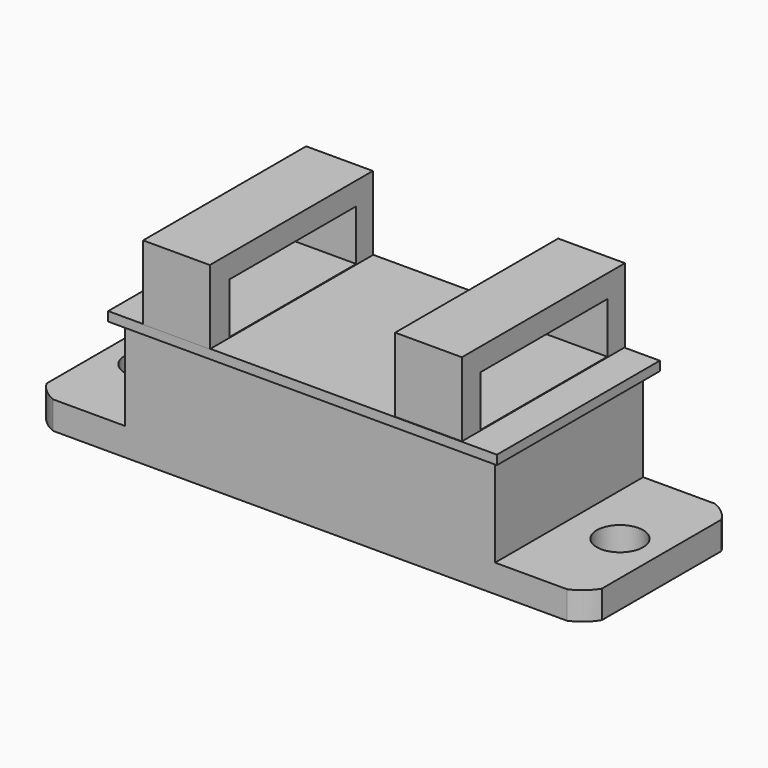
from build123d import *

# Parameters (mm, degrees)
SKETCH_W        = 60
SKETCH_H        = 20
PAD_DEPTH       = 3
SKETCH001_W     = 40
SKETCH001_H     = 20
PAD001_DEPTH    = 10
SKETCH002_W     = 42
SKETCH002_H     = 22
PAD002_DEPTH    = 1
SKETCH003_W     = 7.210509
SKETCH003_H     = 22.018964
PAD003_DEPTH    = 8
SKETCH010_W     = 17.104093
SKETCH010_H     = 5.482681
POCKET_DEPTH    = 40
POCKET001_DEPTH = 5
SKETCH012_R     = 2.5
POCKET002_DEPTH = 5


with BuildPart() as part:
    # Sketch → Pad (new body)
    with BuildSketch(Plane.XY):
        Rectangle(SKETCH_W, SKETCH_H)
    extrude(amount=PAD_DEPTH)

    # Sketch001 (on Face6 of Pad) → Pad001 (join)
    with BuildSketch(Plane.XY.offset(3)):
        Rectangle(SKETCH001_W, SKETCH001_H)
    extrude(amount=PAD001_DEPTH)

    # Sketch002 → Pad002 (join)
    with BuildSketch(Plane.XY.offset(13)):
        Rectangle(SKETCH002_W, SKETCH002_H)
    extrude(amount=PAD002_DEPTH)

    # Sketch003 (on Face15 of Pad002) → Pad003 (join)
    with BuildSketch(Plane.XY.offset(14)):
        with Locations((-13.566278, -0.063386)):
            Rectangle(SKETCH003_W, SKETCH003_H)
        with Locations((13.566278, 0.063386)):
            Rectangle(SKETCH003_W, SKETCH003_H)
    extrude(amount=PAD003_DEPTH)

    # Sketch010 (on Face21 of Pad003) → Pocket (cut, symmetric)
    with BuildSketch(Plane.YZ.offset(-9.961024)):
        with Locations((0.137935, 16.812696)):
            Rectangle(SKETCH010_W, SKETCH010_H)
    extrude(amount=POCKET_DEPTH, both=True, mode=Mode.SUBTRACT)

    # Sketch011 (on Face10 of Pocket) → Pocket001 (cut)
    with BuildSketch(Plane.XY.offset(3)):
        with BuildLine():
            ThreePointArc((-26.414192, 10.338834), (-29.320565, 8.950898), (-30.662811, 6.023143))
            Line((-30.662811, 6.023143), (-30.662811, 10.298891))
            Line((-30.662811, 10.298891), (-26.414192, 10.338834))
        make_face()
        with BuildLine():
            ThreePointArc((-30.662811, -6.023143), (-29.320565, -8.950898), (-26.414192, -10.338834))
            Line((-30.662811, -10.298891), (-26.414192, -10.338834))
            Line((-30.662811, -6.023143), (-30.662811, -10.298891))
        make_face()
        with BuildLine():
            ThreePointArc((30.662811, 6.023143), (29.320565, 8.950898), (26.414192, 10.338834))
            Line((30.662811, 10.298891), (26.414192, 10.338834))
            Line((30.662811, 6.023143), (30.662811, 10.298891))
        make_face()
        with BuildLine():
            ThreePointArc((26.414192, -10.338834), (29.320565, -8.950898), (30.662811, -6.023143))
            Line((30.662811, -6.023143), (30.662811, -10.298891))
            Line((30.662811, -10.298891), (26.414192, -10.338834))
        make_face()
    extrude(amount=-POCKET001_DEPTH, mode=Mode.SUBTRACT)

    # Sketch012 (on Face12 of Pocket001) → Pocket002 (cut)
    with BuildSketch(Plane.XY.offset(3)):
        with Locations((-25.503695, 0)):
            Circle(SKETCH012_R)
        with Locations((25.497604, 0)):
            Circle(SKETCH012_R)
    extrude(amount=-POCKET002_DEPTH, mode=Mode.SUBTRACT)


solid = part.part
